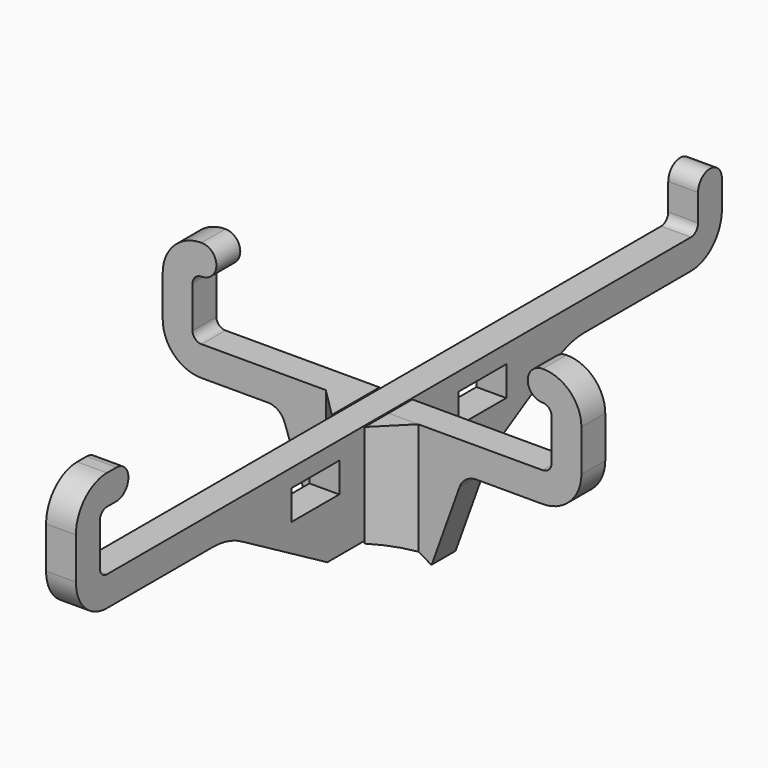
from build123d import *

# Parameters (mm, degrees)
SKETCH_W     = 10
SKETCH_H     = 5
PAD_DEPTH    = 2.5
PAD001_DEPTH = 2.5
PAD002_DEPTH = 20
POCKET_DEPTH = 10


with BuildPart() as vertical:
    # Sketch → Pad (new body, symmetric)
    with BuildSketch(Plane.YZ):
        with BuildLine():
            Line((67.7, 18.5), (67.7, 23.000009))
            ThreePointArc((67.7, 23.000009), (65.199996, 25.500008), (62.7, 23))
            Line((62.7, 18.500016), (62.7, 23))
            ThreePointArc((61.2, 17), (62.260666, 17.439346), (62.7, 18.500016))
            Line((-61.2, 17), (61.2, 17))
            ThreePointArc((-62.7, 18.500016), (-62.260666, 17.439346), (-61.2, 17))
            Line((-62.7, 25.469984), (-62.7, 18.500016))
            ThreePointArc((-61.2, 26.97), (-62.260666, 26.530654), (-62.7, 25.469984))
            Line((-61.2, 26.97), (-59.2, 26.97))
            ThreePointArc((-59.2, 26.97), (-56.7, 29.470001), (-59.200001, 31.97))
            Line((-59.200001, 31.97), (-61.199999, 31.97))
            ThreePointArc((-61.199999, 31.97), (-65.796194, 30.066195), (-67.7, 25.47))
            Line((-67.7, 18.500016), (-67.7, 25.47))
            ThreePointArc((-67.7, 18.500016), (-65.7962, 13.903812), (-61.2, 12))
            Line((-61.2, 12), (-38.960691, 12))
            ThreePointArc((-33, 10.392302), (-35.873843, 11.59102), (-38.960691, 12))
            Line((-15, 0), (-33, 10.392302))
            Line((-15, 0), (-2.75, 0))
            Line((-2.75, 0), (-2.75, 8.7))
            Line((-2.75, 8.7), (2.75, 8.7))
            Line((2.75, 8.7), (2.75, 0))
            Line((2.75, 0), (15, 0))
            Line((15, 0), (33, 10.392302))
            ThreePointArc((38.960691, 12), (35.873843, 11.59102), (33, 10.392302))
            Line((38.960691, 12), (61.2, 12))
            ThreePointArc((61.2, 12), (65.796194, 13.903806), (67.7, 18.5))
        make_face()
        with Locations((-17.5, 11.5)):
            Rectangle(SKETCH_W, SKETCH_H, mode=Mode.SUBTRACT)
        with Locations((17.5, 11.5)):
            Rectangle(SKETCH_W, SKETCH_H, mode=Mode.SUBTRACT)
    extrude(amount=PAD_DEPTH, both=True)


with BuildPart() as fusion:
    # Sketch001 → Pad001 (new body, symmetric)
    with BuildSketch(Plane.XZ):
        with BuildLine():
            Line((17.5, 11.999996), (28.600003, 12))
            ThreePointArc((28.600003, 12), (33.196195, 13.903807), (35.1, 18.5))
            Line((35.1, 25.469992), (35.1, 18.5))
            ThreePointArc((35.1, 25.469992), (33.196194, 30.066186), (28.6, 31.969992))
            ThreePointArc((28.6, 31.969992), (26.1, 29.469992), (28.6, 26.969992))
            ThreePointArc((30.1, 25.469992), (29.66066, 26.530652), (28.6, 26.969992))
            Line((30.1, 18.5), (30.1, 25.469992))
            ThreePointArc((28.6, 17), (29.66066, 17.43934), (30.1, 18.5))
            Line((2.75, 17), (28.6, 17))
            Line((2.75, 8.3), (2.75, 17))
            Line((-2.75, 8.3), (2.75, 8.3))
            Line((-2.75, 16.999996), (-2.75, 8.3))
            Line((-28.6, 16.999996), (-2.75, 16.999996))
            ThreePointArc((-30.1, 18.5), (-29.660662, 17.439337), (-28.6, 16.999996))
            Line((-30.1, 18.5), (-30.1, 25.469992))
            ThreePointArc((-28.6, 26.969996), (-29.660662, 26.530655), (-30.1, 25.469992))
            ThreePointArc((-28.6, 26.969996), (-26.1, 29.469996), (-28.6, 31.969996))
            ThreePointArc((-28.6, 31.969996), (-33.196195, 30.066189), (-35.1, 25.469992))
            Line((-35.1, 25.469992), (-35.1, 18.5))
            ThreePointArc((-35.1, 18.5), (-33.196196, 13.903803), (-28.6, 11.999996))
            Line((-28.6, 11.999996), (-17.5, 11.999996))
            ThreePointArc((-14.676752, 10.014526), (-15.774252, 11.453931), (-17.5, 11.999996))
            Line((-14.676752, 10.014526), (-10, -3))
            Line((-10, -3), (10, -3))
            Line((10, -3), (14.676753, 10.014526))
            ThreePointArc((17.5, 11.999996), (15.774253, 11.45393), (14.676753, 10.014526))
        make_face()
    extrude(amount=PAD001_DEPTH, both=True)

    # Sketch002 → Pad002 (new body)
    with BuildSketch(Plane(origin=(0, 0, 16.999996), x_dir=(-1, 0, 0), z_dir=(0, 0, 1))):
        Polygon((-7.75, 2.5), (-2.75, 7.5), (-2.75, 2.5), align=None)
        Polygon((2.75, 7.5), (2.75, 2.5), (7.75, 2.5), align=None)
    extrude(amount=-PAD002_DEPTH)

    # Sketch003 → Pocket (cut)
    with BuildSketch(Plane(origin=(0, 2.5, 0), x_dir=(1, 0, 0), z_dir=(0, 1, 0))):
        with BuildLine():
            ThreePointArc((-10, 3.138593), (0, 0), (10, 3.138593))
            Line((-10, 3.138593), (10, 3.138593))
        make_face()
    extrude(amount=-POCKET_DEPTH, mode=Mode.SUBTRACT)

    # Fusion: union Vertical
    add(vertical.part)


solid = fusion.part
